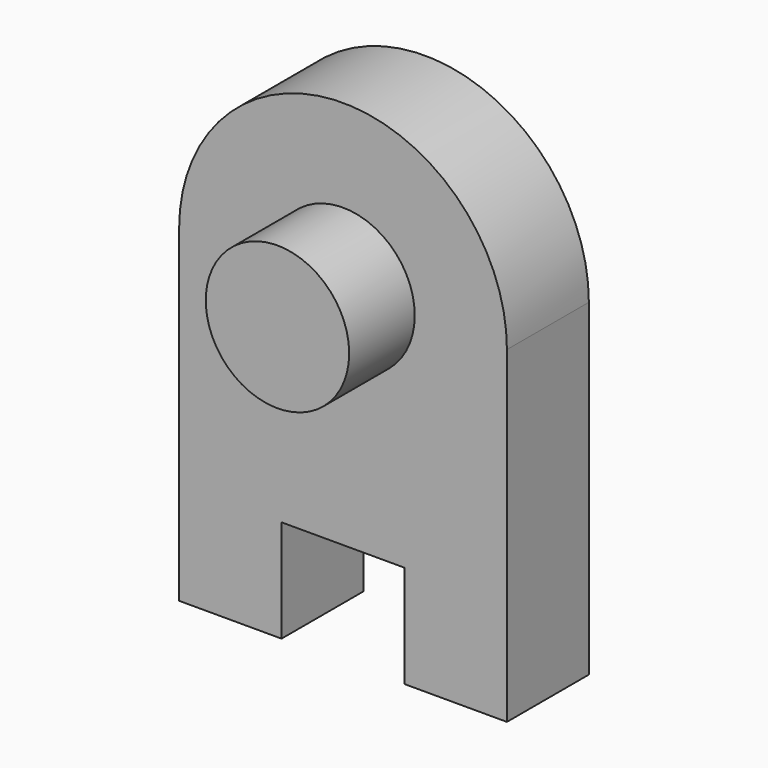
from build123d import *

# Parameters (mm, degrees)
F1_DEPTH = 250
F2_R     = 175
F3_DEPTH = 200


with BuildPart() as f1:
    # F0 (on Front) → F1 (new body)
    with BuildSketch(Plane.XZ):
        with BuildLine():
            Line((-400, 400), (-400, -400))
            Line((-400, -400), (-150, -400))
            Line((-150, -400), (-150, -150))
            Line((-150, -150), (150, -150))
            Line((150, -150), (150, -400))
            Line((150, -400), (400, -400))
            Line((400, -400), (400, 400))
            ThreePointArc((400, 400), (0, 800), (-400, 400))
        make_face()
    extrude(amount=F1_DEPTH)

    # F2 (on face) → F3 (join)
    with BuildSketch(Plane.XZ.offset(250)):
        with Locations((0, 400)):
            Circle(F2_R)
    extrude(amount=F3_DEPTH)


solid = f1.part
